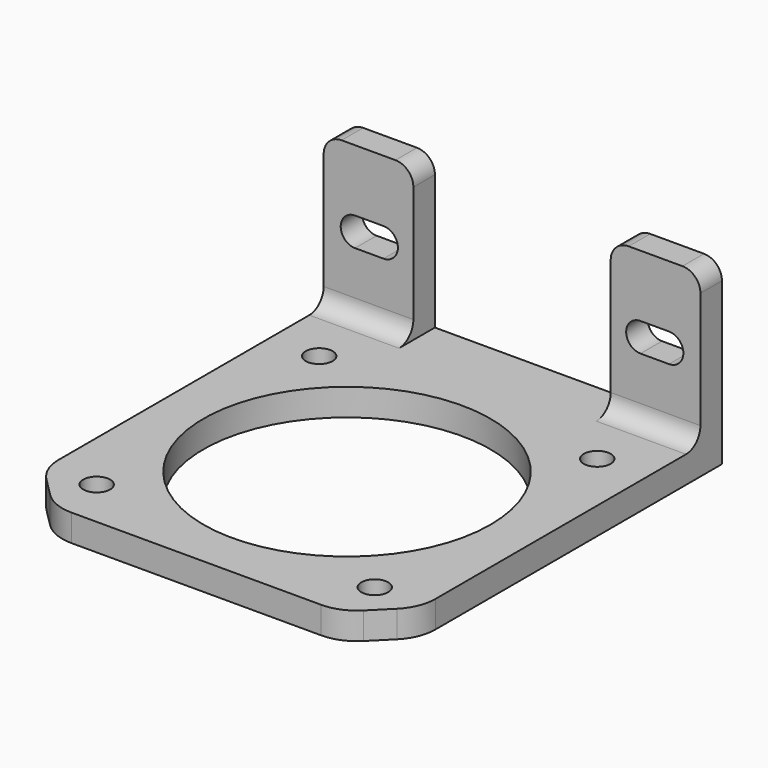
from build123d import *

# Parameters (mm, degrees)
F0_R     = 1.5
F0_R_2   = 16
F1_DEPTH = 3
F0_W     = 42
F0_H     = 3
F2_DEPTH = 20
F4_DEPTH = 25
F3_W     = 22
F3_H     = 17
F5_DEPTH = 25
F6_R     = 2
F7_R     = 5


with BuildPart() as f1:
    # F0 (on Top) → F1 (new body)
    with BuildSketch(Plane.XY):
        Polygon((-96.9759252071, -84.7722164392), (-91.9759252071, -79.7722164392), (-91.9759252071, -47.7722164392), (-91.9759252071, -42.7722164392), (-91.9759252071, -40.7722164392), (-133.9759252071, -40.7722164392), (-133.9759252071, -42.7722164392), (-133.9759252071, -47.7722164392), (-133.9759252071, -79.7722164392), (-128.9759252071, -84.7722164392), align=None)
        with Locations((-128.4759252071, -79.2722164392)):
            Circle(F0_R, mode=Mode.SUBTRACT)
        with Locations((-97.4759252071, -79.2722164392)):
            Circle(F0_R, mode=Mode.SUBTRACT)
        with Locations((-112.9759252071, -63.7722164392)):
            Circle(F0_R_2, mode=Mode.SUBTRACT)
        with Locations((-128.4759252071, -48.2722164392)):
            Circle(F0_R, mode=Mode.SUBTRACT)
        with Locations((-97.4759252071, -48.2722164392)):
            Circle(F0_R, mode=Mode.SUBTRACT)
    extrude(amount=F1_DEPTH)

    # F0 (on Top) → F2 (join)
    with BuildSketch(Plane.XY):
        with Locations((-112.9759252071, -39.2722164392)):
            Rectangle(F0_W, F0_H)
    extrude(amount=F2_DEPTH)

    # F3 (on face) → F4 (cut)
    with BuildSketch(Plane.XZ.offset(40.7722164392)):
        with BuildLine():
            ThreePointArc((-95.4759252071, 9.9), (-93.8759252071, 11.5), (-95.4759252071, 13.1))
            Line((-95.4759252071, 13.1), (-98.6511558294, 13.1))
            ThreePointArc((-98.6511558294, 13.1), (-100.2511558294, 11.5), (-98.6511558294, 9.9))
            Line((-98.6511558294, 9.9), (-95.4759252071, 9.9))
        make_face()
        with BuildLine():
            Line((-127.3006945848, 13.1), (-130.4759252071, 13.1))
            ThreePointArc((-130.4759252071, 13.1), (-132.0759252071, 11.5), (-130.4759252071, 9.9))
            Line((-130.4759252071, 9.9), (-127.3006945848, 9.9))
            ThreePointArc((-127.3006945848, 9.9), (-125.7006945848, 11.5), (-127.3006945848, 13.1))
        make_face()
    extrude(amount=-F4_DEPTH, mode=Mode.SUBTRACT)

    # F3 (on face) → F5 (cut)
    with BuildSketch(Plane.XZ.offset(40.7722164392)):
        with Locations((-112.9759252071, 11.5)):
            Rectangle(F3_W, F3_H)
    extrude(amount=-F5_DEPTH, mode=Mode.SUBTRACT)

    # F6
    f6_edges = [f1.edges().sort_by_distance(p)[0] for p in [
        (-96.975925, -40.772216, 3),
        (-128.975925, -40.772216, 3),
        (-91.975925, -39.272216, 20),
        (-101.975925, -39.272216, 20),
        (-123.975925, -39.272216, 20),
        (-133.975925, -39.272216, 20),
    ]]
    fillet(f6_edges, radius=F6_R)

    # F7
    f7_edges = [f1.edges().sort_by_distance(p)[0] for p in [
        (-133.975925, -79.772216, 1.5),
        (-128.975925, -84.772216, 1.5),
        (-96.975925, -84.772216, 1.5),
        (-91.975925, -79.772216, 1.5),
    ]]
    fillet(f7_edges, radius=F7_R)


solid = f1.part
